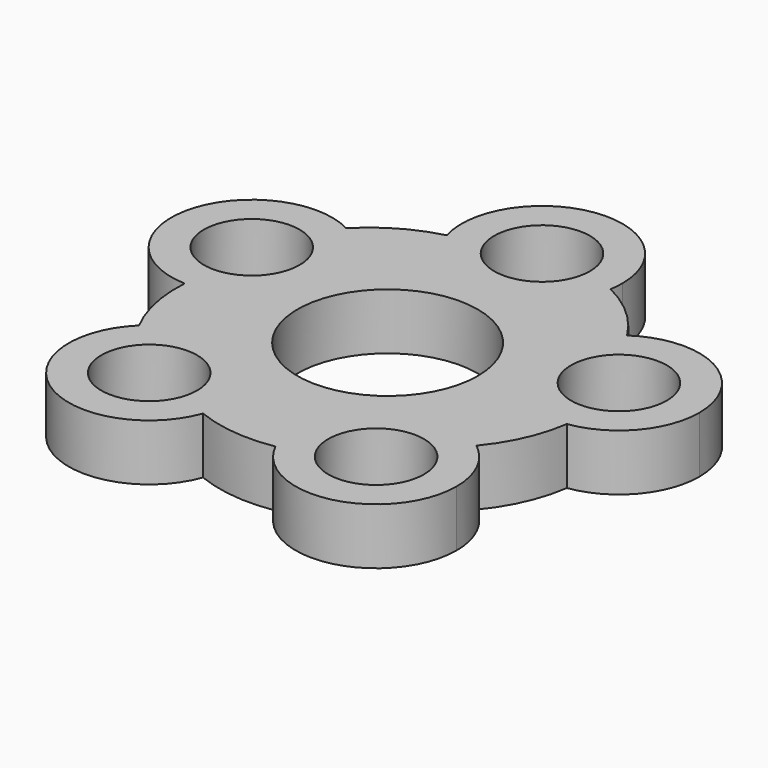
from build123d import *

# Parameters (mm, degrees)
F0_R     = 5.947106
F0_R_2   = 11.2
F1_DEPTH = 7


with BuildPart() as f1:
    # F0 (on Top) → F1 (new body)
    with BuildSketch(Plane.XY):
        with BuildLine():
            ThreePointArc((-12.799167, 7.407898), (-14.24174, 12.581914), (-18.153254, 16.263151))
            ThreePointArc((-18.153254, 16.263151), (-32.468011, 9.960046), (-23.128774, -2.586668))
            ThreePointArc((-23.128774, -2.586668), (-15.845609, 0.221242), (-12.799167, 7.407898))
        make_face()
        with Locations((-22.799167, 7.407898)):
            Circle(F0_R, mode=Mode.SUBTRACT)
        with BuildLine():
            ThreePointArc((9.857511, 22.29036), (9.964314, 23.1284), (10, 23.972463))
            ThreePointArc((10, 23.972463), (-1.401336, 33.873789), (-9.607252, 21.197447))
            ThreePointArc((-9.607252, 21.197447), (0.5606, 13.988189), (9.857511, 22.29036))
        make_face()
        with Locations((0, 23.972463)):
            Circle(F0_R, mode=Mode.SUBTRACT)
        with BuildLine():
            ThreePointArc((32.799167, 7.407898), (27.485316, 16.241924), (17.191166, 15.687411))
            ThreePointArc((17.191166, 15.687411), (13.476793, 3.789426), (24.245531, -2.48695))
            ThreePointArc((24.245531, -2.48695), (30.364339, 0.86816), (32.799167, 7.407898))
        make_face()
        with Locations((22.799167, 7.407898)):
            Circle(F0_R, mode=Mode.SUBTRACT)
        with BuildLine():
            ThreePointArc((24.09066, -19.39413), (23.074344, -15.001702), (20.231977, -11.502094))
            ThreePointArc((20.231977, -11.502094), (7.768516, -11.646195), (5.127051, -23.82738))
            ThreePointArc((5.127051, -23.82738), (16.367051, -29.131586), (24.09066, -19.39413))
        make_face()
        with Locations((14.09066, -19.39413)):
            Circle(F0_R, mode=Mode.SUBTRACT)
        with BuildLine():
            ThreePointArc((-4.09066, -19.39413), (-10.208766, -10.178334), (-21.076839, -12.239181))
            ThreePointArc((-21.076839, -12.239181), (-19.505734, -27.80109), (-4.687117, -22.796096))
            ThreePointArc((-4.687117, -22.796096), (-4.240903, -21.121059), (-4.09066, -19.39413))
        make_face()
        with Locations((-14.09066, -19.39413)):
            Circle(F0_R, mode=Mode.SUBTRACT)
        with BuildLine():
            ThreePointArc((9.857511, 22.29036), (0.5606, 13.988189), (-9.607252, 21.197447))
            ThreePointArc((-9.607252, 21.197447), (-14.222694, 19.323393), (-18.153254, 16.263151))
            ThreePointArc((-18.153254, 16.263151), (-14.24174, 12.581914), (-12.799167, 7.407898))
            ThreePointArc((-12.799167, 7.407898), (-15.845609, 0.221242), (-23.128774, -2.586668))
            ThreePointArc((-23.128774, -2.586668), (-22.772693, -7.555329), (-21.076839, -12.239181))
            ThreePointArc((-21.076839, -12.239181), (-10.208766, -10.178334), (-4.09066, -19.39413))
            ThreePointArc((-4.09066, -19.39413), (-4.240903, -21.121059), (-4.687117, -22.796096))
            ThreePointArc((-4.687117, -22.796096), (0.148396, -23.992843), (5.127051, -23.82738))
            ThreePointArc((5.127051, -23.82738), (7.768516, -11.646195), (20.231977, -11.502094))
            ThreePointArc((20.231977, -11.502094), (22.864407, -7.273064), (24.245531, -2.48695))
            ThreePointArc((24.245531, -2.48695), (13.476793, 3.789426), (17.191166, 15.687411))
            ThreePointArc((17.191166, 15.687411), (13.982585, 19.497843), (9.857511, 22.29036))
        make_face()
        Circle(F0_R_2, mode=Mode.SUBTRACT)
    extrude(amount=F1_DEPTH)


solid = f1.part
